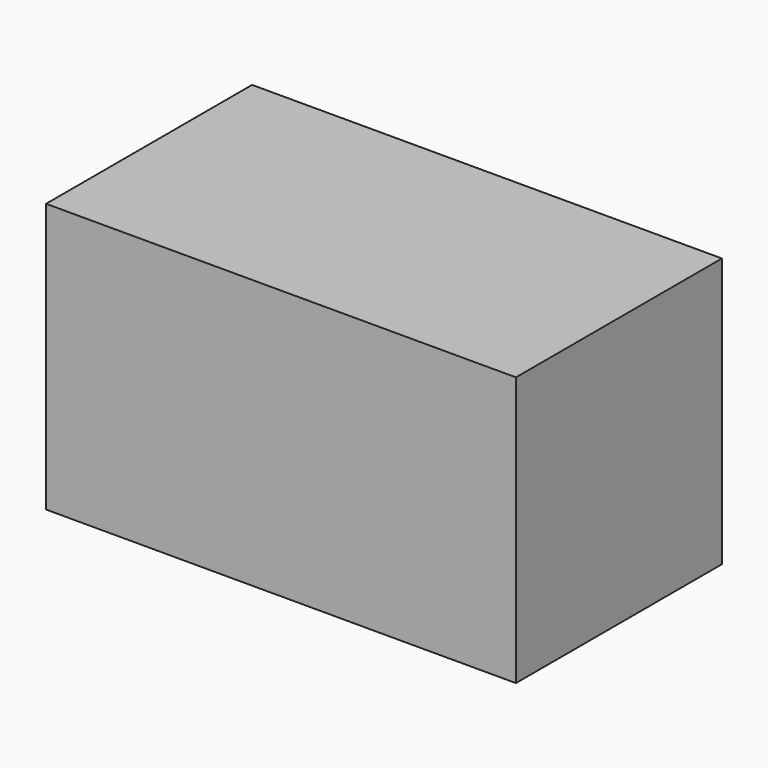
from build123d import *

# Parameters (mm, degrees)
F0_W     = 109.487378
F0_H     = 62.730164
F1_DEPTH = 30
F2_R     = 15.183166
F3_DEPTH = 50.8


with BuildPart() as f1:
    # F0 (on Front) → F1 (new body, symmetric)
    with BuildSketch(Plane.XZ):
        Rectangle(F0_W, F0_H)
    extrude(amount=F1_DEPTH, both=True)

    # F2 (on face) → F3 (join)
    with BuildSketch(Plane.XY.offset(31.365082)):
        Circle(F2_R)
    extrude(amount=-F3_DEPTH)


solid = f1.part
